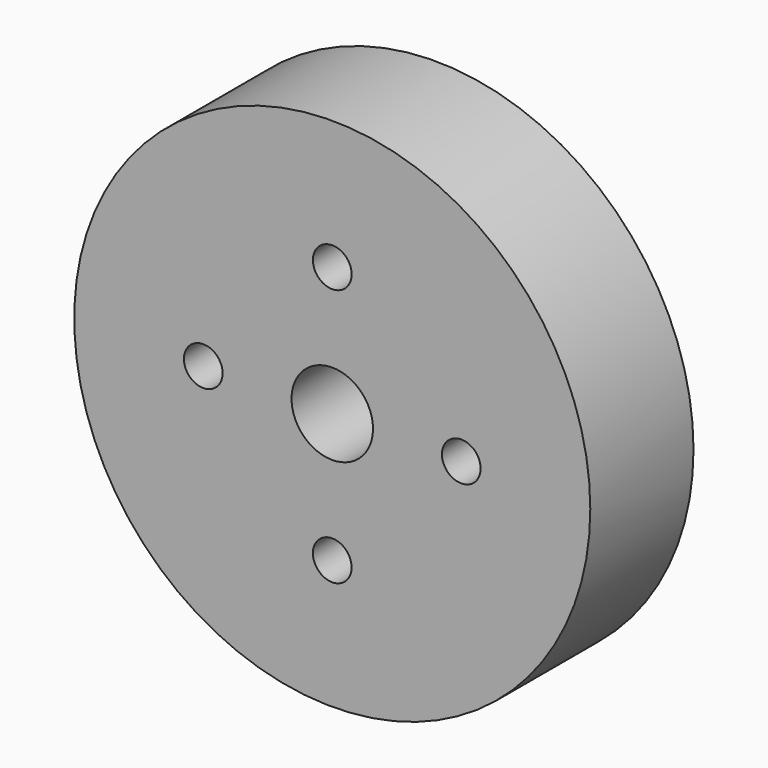
from build123d import *

# Parameters (mm, degrees)
F0_R     = 50.798489
F1_DEPTH = 25.4
F2_R     = 8.018055
F3_DEPTH = 88.392
F4_R     = 3.81
F6_DEPTH = 25.4


with BuildPart() as f1:
    # F0 (on Front) → F1 (new body)
    with BuildSketch(Plane.XZ):
        Circle(F0_R)
    extrude(amount=F1_DEPTH)

    # F2 (on face) → F3 (cut)
    with BuildSketch(Plane.XZ.offset(25.4)):
        Circle(F2_R)
    extrude(amount=-F3_DEPTH, mode=Mode.SUBTRACT)

    # F4 (on face) → F6 (cut)
    with BuildSketch(Plane.XZ.offset(25.4)):
        with Locations((0, 25.4)):
            Circle(F4_R)
        with Locations((-25.4, 0)):
            Circle(F4_R)
        with Locations((0, -25.4)):
            Circle(F4_R)
        with Locations((25.4, 0)):
            Circle(F4_R)
    extrude(amount=-F6_DEPTH, mode=Mode.SUBTRACT)


solid = f1.part
